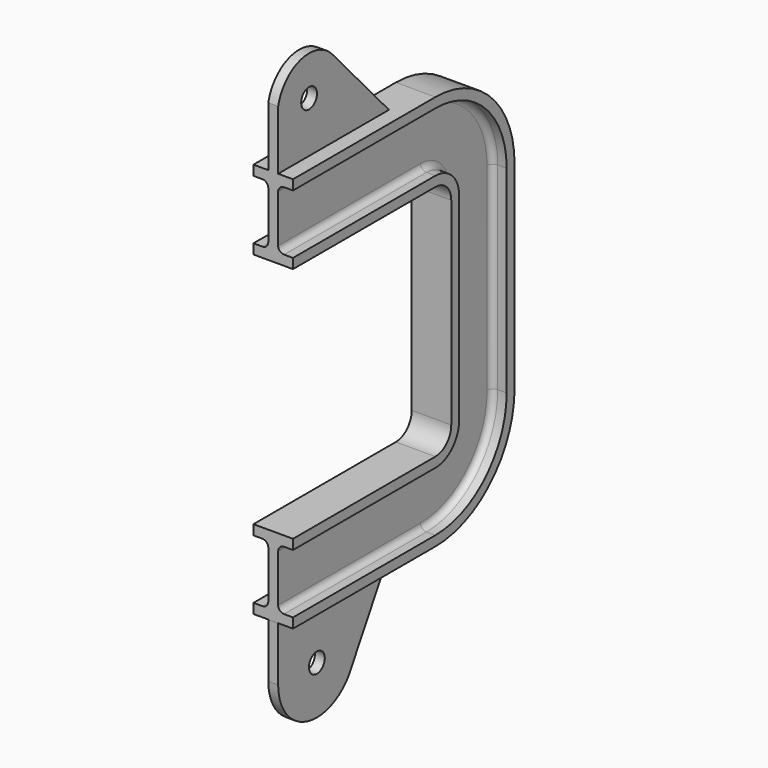
from build123d import *

# Parameters (mm, degrees)
F3_R     = 5
F4_DEPTH = 2.5019
F5_R     = 5
F6_DEPTH = 2.5


with BuildPart() as f2:
    # F2: sweep along a path in F1
    with BuildLine(Plane.YZ) as f2_path:
        Line((0, -20), (90, -20))
        ThreePointArc((90, -20), (97.0710678119, -22.9289321881), (100, -30))
        Line((100, -30), (100, -70))
        Line((100, -70), (100, -130))
        ThreePointArc((100, -130), (97.0710678119, -137.0710678119), (90, -140))
        Line((90, -140), (0, -140))
    # F0 (on Front) → F2 (sweep)
    with BuildSketch(Plane.XZ):
        with BuildLine():
            Line((10, 20), (0, 20))
            Line((0, 20), (-10, 20))
            Line((-10, 20), (-10, 15))
            Line((-10, 15), (-5.5, 15))
            ThreePointArc((-5.5, 15), (-3.3786796564, 14.1213203436), (-2.5, 12))
            Line((-2.5, 12), (-2.5, 0))
            Line((-2.5, 0), (-2.5, -12))
            ThreePointArc((-2.5, -12), (-3.3786796564, -14.1213203436), (-5.5, -15))
            Line((-5.5, -15), (-10, -15))
            Line((-10, -15), (-10, -20))
            Line((-10, -20), (0, -20))
            Line((0, -20), (10, -20))
            Line((10, -20), (10, -15))
            Line((10, -15), (5.5, -15))
            ThreePointArc((5.5, -15), (3.3786796564, -14.1213203436), (2.5, -12))
            Line((2.5, -12), (2.5, 0))
            Line((2.5, 0), (2.5, 12))
            ThreePointArc((2.5, 12), (3.3786796564, 14.1213203436), (5.5, 15))
            Line((5.5, 15), (10, 15))
            Line((10, 15), (10, 20))
        make_face()
    sweep(path=f2_path.line)

    # F3 (on Right) → F4 (join, symmetric)
    with BuildSketch(Plane.YZ):
        with BuildLine():
            Line((0, 50), (0, 20))
            Line((0, 20), (70, 20))
            Line((70, 20), (34.3131745435, 59.1621407854))
            ThreePointArc((34.3131745435, 59.1621407854), (14.3707898227, 65.0141729122), (0, 50))
        make_face()
        with Locations((19.5303310126, 45.6911520637)):
            Circle(F3_R, mode=Mode.SUBTRACT)
    extrude(amount=F4_DEPTH, both=True)

    # F5 (on Right) → F6 (join, symmetric)
    with BuildSketch(Plane.YZ):
        with BuildLine():
            Line((70, -177.5), (0, -177.5))
            Line((0, -177.5), (0, -207.5))
            ThreePointArc((0, -207.5), (18.9121985963, -231.3187428985), (46.3976711035, -218.2975075473))
            Line((46.3976711035, -218.2975075473), (70, -177.5))
        make_face()
        with Locations((24.4552150904, -207.5)):
            Circle(F5_R, mode=Mode.SUBTRACT)
    extrude(amount=F6_DEPTH, both=True)


solid = f2.part
